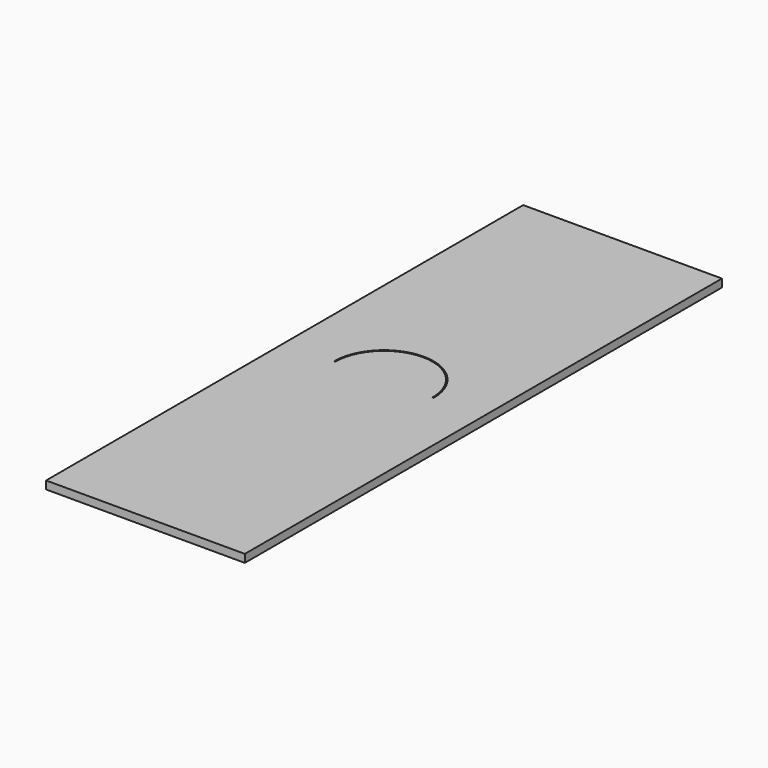
from build123d import *

# Parameters (mm, degrees)
PAD004_DEPTH      = 2
PAD004_DEPTH_BACK = 2
SKETCH020_W       = 25
SKETCH020_H       = 75
PAD019_DEPTH      = 1


with BuildPart() as body004:
    # Sketch005 → Pad004 (new body, two sides)
    with BuildSketch(Plane.XY) as pad004_sk:
        with BuildLine():
            ThreePointArc((18.749989, 37.50156), (12.49422, 43.740026), (6.25, 37.49))
            Line((6.4, 37.49), (6.25, 37.49))
            ThreePointArc((18.599989, 37.50156), (12.49422, 43.590026), (6.4, 37.49))
            Line((18.749989, 37.50156), (18.599989, 37.50156))
        make_face()
    extrude(amount=PAD004_DEPTH)
    extrude(pad004_sk.sketch, amount=-PAD004_DEPTH_BACK)


with BuildPart() as body018:
    # Sketch020 → Pad019 (new body)
    with BuildSketch(Plane.XY):
        with Locations((12.5, 37.5)):
            Rectangle(SKETCH020_W, SKETCH020_H)
    extrude(amount=PAD019_DEPTH)

    # Boolean003: cut Body004
    add(body004.part, mode=Mode.SUBTRACT)


solid = body018.part
